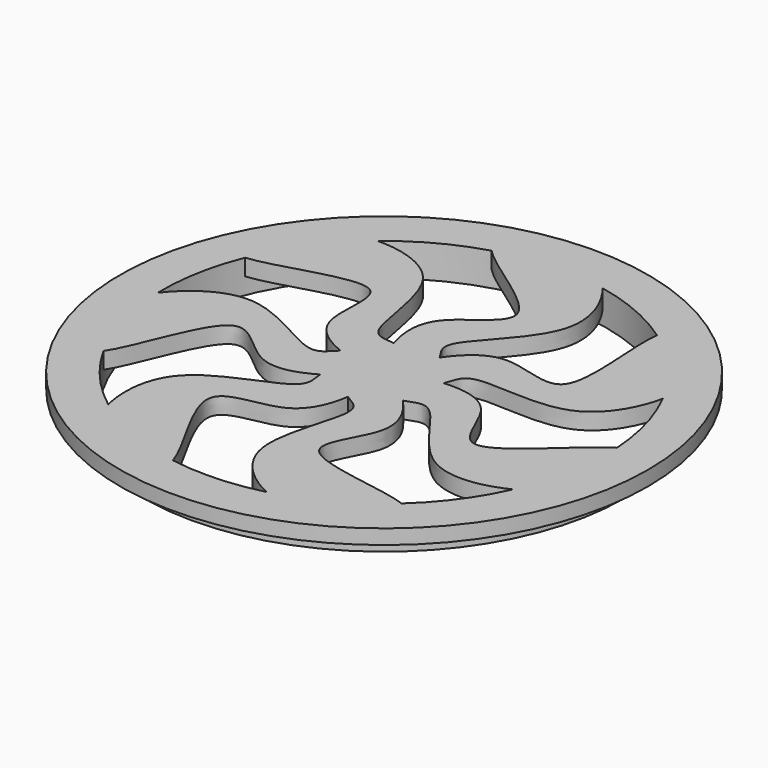
from build123d import *

# Parameters (mm, degrees)
F4_DEPTH = 1.27
F5_COUNT = 7


with BuildPart() as f2:
    # F0 (on Front) → F2 (revolve)
    with BuildSketch(Plane.XZ):
        Polygon((20.32, 0), (17.1027183533, 0), (17.1027183533, -2.54), (18.4779912233, -2.54), (18.4779912233, -1.1283806525), (20.32, -1.1283806525), align=None)
    revolve(axis=Axis((0, 0, 13.6346635409), (0, 0, 1)))

    # F3 (on Top) → F4 (join)
    with BuildSketch(Plane.XY):
        with BuildLine():
            add(Edge.make_bspline(
                [(-5.2918707952, 17.0895624906), (-4.9230376308, 15.6093441867), (5.298526873, 10.7131052152), (-3.2834367057, 7.7653718382), (-1.7245148193, 1.9943249035), (1.0310807924, -2.4563073453), (2.6209961961, 3.0979901081), (-0.8844793463, 5.1663323602), (7.4862263106, 11.0187152537), (2.4331517289, 18.9209031753), (-1.4416963876, 18.8317415993), (-5.5235221617, 18.0192364624), (-5.2918707952, 17.0895624906)],
                knots=[0, 0, 0, 0, 0.1359390655, 0.2339466043, 0.3394038105, 0.4217315334, 0.5067897625, 0.5797495637, 0.7029578069, 0.8227146697, 0.91462137, 1, 1, 1, 1], degree=3))
        make_face()
    extrude(amount=-F4_DEPTH)

    # F5: F2 ×7 about axis
    f5_axis = Axis((0, 0, 0), (0, 0, 1))


with BuildPart() as f2_1:
    add(f2.part)
    for i in range(1, F5_COUNT):
        add(f2.part.rotate(f5_axis, i * 360 / F5_COUNT))


solid = f2_1.part
